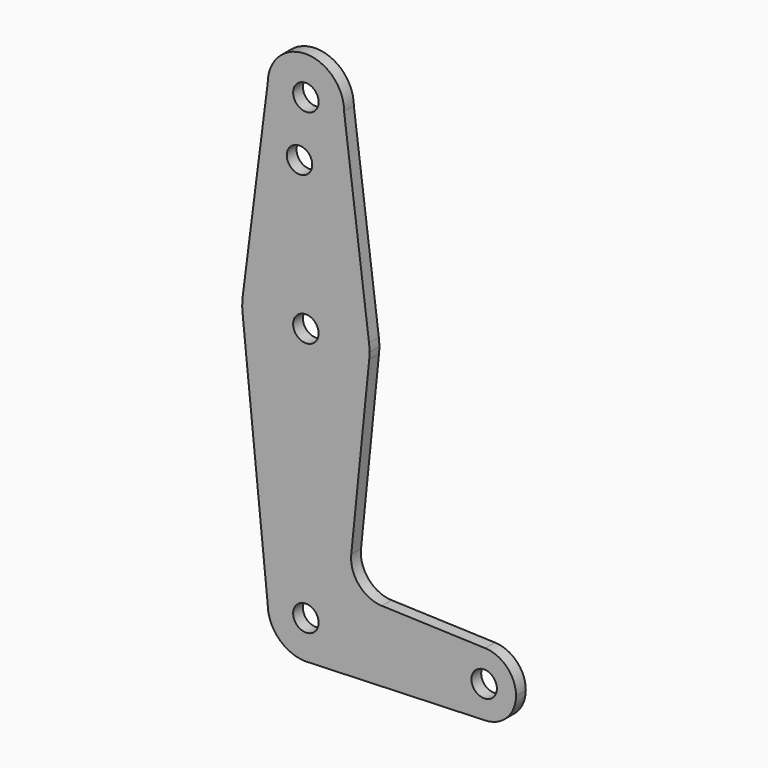
from build123d import *

# Parameters (mm, degrees)
F0_R     = 3.175
F1_DEPTH = 3.048


with BuildPart() as f1:
    # F0 (on Front) → F1 (new body)
    with BuildSketch(Plane.XZ):
        with BuildLine():
            ThreePointArc((-9.525, 114.3), (0, 104.775), (9.525, 114.3))
            ThreePointArc((9.525, 114.3), (0, 123.825), (-9.525, 114.3))
        make_face()
        with Locations((0, 114.3)):
            Circle(F0_R, mode=Mode.SUBTRACT)
        with BuildLine():
            Line((15.747457, 65.508289), (9.525, 114.3))
            ThreePointArc((9.525, 114.3), (0, 104.775), (-9.525, 114.3))
            Line((-9.525, 114.3), (-15.747457, 65.508289))
            ThreePointArc((-15.747457, 65.508289), (0, 79.375), (15.747457, 65.508289))
        make_face()
        with Locations((-1.5875, 100.0252)):
            Circle(F0_R, mode=Mode.SUBTRACT)
        with BuildLine():
            ThreePointArc((15.875, 63.5), (15.843082, 64.506168), (15.747457, 65.508289))
            ThreePointArc((15.747457, 65.508289), (0, 79.375), (-15.747457, 65.508289))
            ThreePointArc((-15.747457, 65.508289), (-15.873668, 63.705667), (-15.794203, 61.90038))
            ThreePointArc((-15.794203, 61.90038), (0, 47.625), (15.794203, 61.90038))
            ThreePointArc((15.794203, 61.90038), (15.854788, 62.699171), (15.875, 63.5))
        make_face()
        with Locations((0, 63.5)):
            Circle(F0_R, mode=Mode.SUBTRACT)
        with BuildLine():
            ThreePointArc((15.794203, 61.90038), (0, 47.625), (-15.794203, 61.90038))
            Line((-15.794203, 61.90038), (-9.525, 0))
            ThreePointArc((-9.525, 0), (0, 9.525), (9.525, 0))
            ThreePointArc((9.525, 0), (6.970557, -6.491299), (0.677344, -9.500886))
            Line((0.677344, -9.500886), (44.732405, -7.932475))
            ThreePointArc((44.732405, -7.932475), (36.5125, 0), (44.732405, 7.932475))
            Line((44.732405, 7.932475), (18.934103, 8.850924))
            ThreePointArc((18.934103, 8.850924), (13.224974, 11.57098), (11.307223, 17.59718))
            Line((11.307223, 17.59718), (15.794203, 61.90038))
        make_face()
        with BuildLine():
            ThreePointArc((9.525, 0), (0, 9.525), (-9.525, 0))
            ThreePointArc((-9.525, 0), (-6.735192, -6.735192), (0, -9.525))
            Line((0, -9.525), (0.677344, -9.500886))
            ThreePointArc((0.677344, -9.500886), (6.970557, -6.491299), (9.525, 0))
        make_face()
        Circle(F0_R, mode=Mode.SUBTRACT)
        with BuildLine():
            Line((0.677344, -9.500886), (0, -9.525))
            ThreePointArc((0, -9.525), (0.338886, -9.51897), (0.677344, -9.500886))
        make_face()
        with BuildLine():
            ThreePointArc((52.3875, 0), (50.161633, 5.51191), (44.732405, 7.932475))
            ThreePointArc((44.732405, 7.932475), (36.5125, 0), (44.732405, -7.932475))
            ThreePointArc((44.732405, -7.932475), (50.161633, -5.51191), (52.3875, 0))
        make_face()
        with Locations((44.45, 0)):
            Circle(F0_R, mode=Mode.SUBTRACT)
    extrude(amount=F1_DEPTH)


solid = f1.part
